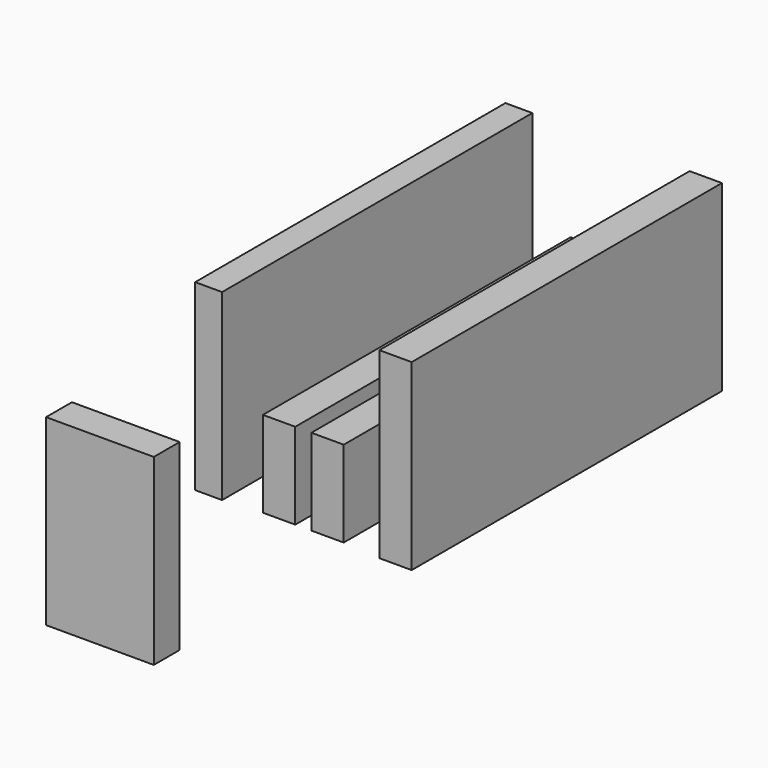
from build123d import *

# Parameters (mm, degrees)
F1_W     = 12.7
F1_H     = 3.81
F1_W_2   = 3.175
F1_H_2   = 45.72
F1_W_3   = 3.81
F2_DEPTH = 21.59
F1_H_3   = 45.339
F3_DEPTH = 10.16


with BuildPart() as f2:
    # F1 (on Top) → F2 (new body)
    with BuildSketch(Plane.XY):
        with Locations((0, -27.686)):
            Rectangle(F1_W, F1_H)
        with Locations((-10.8585, 22.86)):
            Rectangle(F1_W_2, F1_H_2)
        with Locations((11.176, 22.86)):
            Rectangle(F1_W_3, F1_H_2)
    extrude(amount=F2_DEPTH)


with BuildPart() as f3:
    # F1 (on Top) → F3 (new body)
    with BuildSketch(Plane.XY):
        with Locations((-2.8575, 23.0505)):
            Rectangle(F1_W_3, F1_H_3)
        with Locations((2.8575, 23.0505)):
            Rectangle(F1_W_3, F1_H_3)
    extrude(amount=F3_DEPTH)


solid = Compound([f2.part, f3.part])
